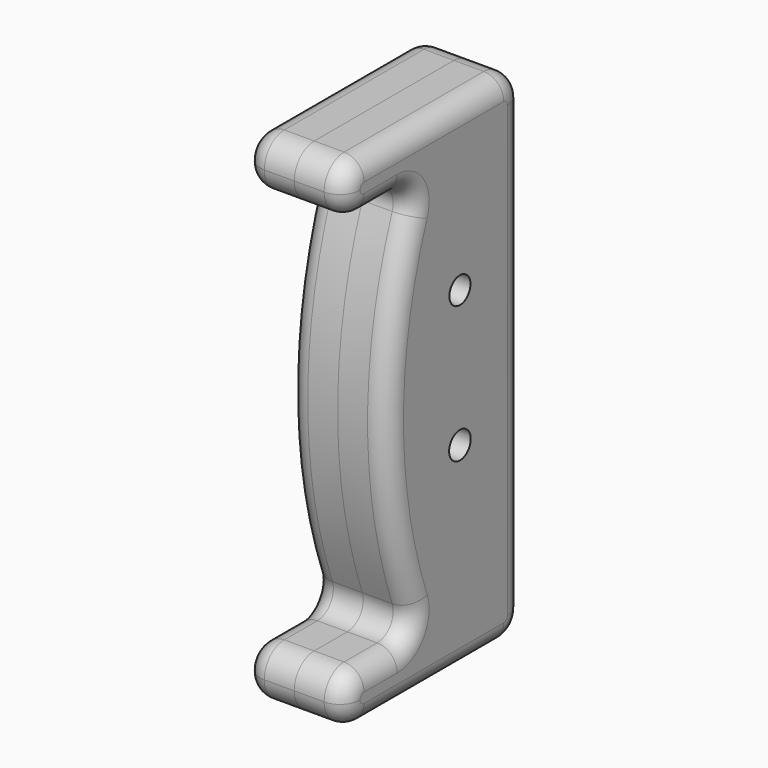
from build123d import *

# Parameters (mm, degrees)
F0_R     = 3.442574
F0_R_2   = 3.35685
F1_DEPTH = 12.7
F2_R     = 5.08


with BuildPart() as f1:
    # F0 (on Right) → F1 (new body)
    with BuildSketch(Plane.YZ):
        with BuildLine():
            Line((23.325471, -67.054919), (23.325471, 47.245081))
            ThreePointArc((23.325471, 47.245081), (21.465599, 51.73521), (16.975471, 53.595081))
            Line((16.975471, 53.595081), (-27.474529, 53.595081))
            ThreePointArc((-27.474529, 53.595081), (-31.964657, 51.73521), (-33.824529, 47.245081))
            ThreePointArc((-33.824529, 47.245081), (-31.964657, 42.754953), (-27.474529, 40.895081))
            Line((-27.474529, 40.895081), (-9.415587, 40.895081))
            Line((-9.415587, 40.895081), (-9.415587, -60.704919))
            Line((-9.415587, -60.704919), (-27.474529, -60.704919))
            ThreePointArc((-27.474529, -60.704919), (-31.964657, -62.56479), (-33.824529, -67.054919))
            ThreePointArc((-33.824529, -67.054919), (-31.964657, -71.545047), (-27.474529, -73.404919))
            Line((-27.474529, -73.404919), (16.975471, -73.404919))
            ThreePointArc((16.975471, -73.404919), (21.465599, -71.545047), (23.325471, -67.054919))
        make_face()
        with Locations((3.043987, -22.84038)):
            Circle(F0_R, mode=Mode.SUBTRACT)
        with Locations((3.043987, 11.899044)):
            Circle(F0_R_2, mode=Mode.SUBTRACT)
        with BuildLine():
            Line((-9.415587, -60.704919), (-9.415587, 40.895081))
            ThreePointArc((-9.415587, 40.895081), (-20.005104, -9.904919), (-9.415587, -60.704919))
        make_face()
    extrude(amount=F1_DEPTH)

    # F2
    f2_edges = [f1.edges().sort_by_distance(p)[0] for p in [
        (0, -5.249529, 53.595081),
        (0, -20.005104, -9.904919),
        (6.35, -9.415587, 40.895081),
        (6.35, -9.415587, -60.704919),
    ]]
    fillet(f2_edges, radius=F2_R)


with BuildPart() as f3_1:
    # F3: instance of F1
    add(f1.part.mirror(Plane(origin=(12.7, 1.082307, -9.958647), x_dir=(0, 1, 0), z_dir=(1, 0, 0))))


solid = Compound([f1.part, f3_1.part])
